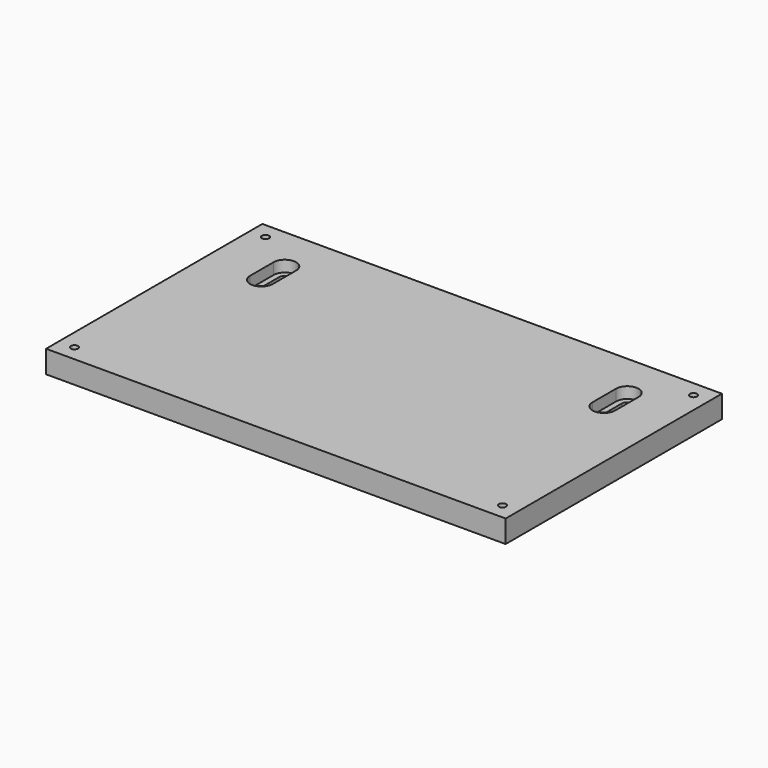
from build123d import *

# Parameters (mm, degrees)
F0_R     = 4
F1_DEPTH = 5
F2_DEPTH = 5
F3_DEPTH = 5
F0_R_2   = 1.6
F4_DEPTH = 5
F5_DEPTH = 5
F6_DEPTH = 5
F7_DEPTH = 5
F8_DEPTH = 5


with BuildPart() as f1:
    # F0 (on Top) → F1 (new body)
    with BuildSketch(Plane.XY):
        Polygon((102, 53), (102, 60), (95, 60), (-95, 60), (-102, 60), (-102, 53), (-102, -53), (-102, -60), (-95, -60), (95, -60), (102, -60), (102, -53), align=None)
        with Locations((-95, -53)):
            Circle(F0_R, mode=Mode.SUBTRACT)
        with Locations((95, -53)):
            Circle(F0_R, mode=Mode.SUBTRACT)
        with BuildLine():
            ThreePointArc((-81, 40), (-76, 45), (-71, 40))
            Line((-71, 40), (-71, 27))
            ThreePointArc((-71, 27), (-76, 22), (-81, 27))
            Line((-81, 27), (-81, 40))
        make_face(mode=Mode.SUBTRACT)
        with Locations((-95, 53)):
            Circle(F0_R, mode=Mode.SUBTRACT)
        with BuildLine():
            Line((71, 27), (71, 40))
            ThreePointArc((71, 40), (76, 45), (81, 40))
            Line((81, 40), (81, 27))
            ThreePointArc((81, 27), (76, 22), (71, 27))
        make_face(mode=Mode.SUBTRACT)
        with Locations((95, 53)):
            Circle(F0_R, mode=Mode.SUBTRACT)
    extrude(amount=-F1_DEPTH)

    # F0 (on Top) → F2 (join)
    with BuildSketch(Plane.XY):
        with BuildLine():
            Line((-71, 27), (-71, 40))
            ThreePointArc((-71, 40), (-76, 45), (-81, 40))
            Line((-81, 40), (-81, 27))
            ThreePointArc((-81, 27), (-80.330127, 29.5), (-78.5, 31.330127))
            Line((-78.5, 31.330127), (-78.5, 40))
            ThreePointArc((-78.5, 40), (-76, 42.5), (-73.5, 40))
            Line((-73.5, 40), (-73.5, 31.330127))
            ThreePointArc((-73.5, 31.330127), (-71.669873, 29.5), (-71, 27))
        make_face()
    extrude(amount=-F2_DEPTH)

    # F0 (on Top) → F3 (join)
    with BuildSketch(Plane.XY):
        Polygon((102, 53), (102, 60), (95, 60), (-95, 60), (-102, 60), (-102, 53), (-102, -53), (-102, -60), (-95, -60), (95, -60), (102, -60), (102, -53), align=None)
        with Locations((-95, -53)):
            Circle(F0_R, mode=Mode.SUBTRACT)
        with Locations((95, -53)):
            Circle(F0_R, mode=Mode.SUBTRACT)
        with BuildLine():
            ThreePointArc((-81, 40), (-76, 45), (-71, 40))
            Line((-71, 40), (-71, 27))
            ThreePointArc((-71, 27), (-76, 22), (-81, 27))
            Line((-81, 27), (-81, 40))
        make_face(mode=Mode.SUBTRACT)
        with Locations((-95, 53)):
            Circle(F0_R, mode=Mode.SUBTRACT)
        with BuildLine():
            Line((71, 27), (71, 40))
            ThreePointArc((71, 40), (76, 45), (81, 40))
            Line((81, 40), (81, 27))
            ThreePointArc((81, 27), (76, 22), (71, 27))
        make_face(mode=Mode.SUBTRACT)
        with Locations((95, 53)):
            Circle(F0_R, mode=Mode.SUBTRACT)
    extrude(amount=F3_DEPTH)

    # F0 (on Top) → F4 (join)
    with BuildSketch(Plane.XY):
        with Locations((95, -53)):
            Circle(F0_R)
        with Locations((95, -53)):
            Circle(F0_R_2, mode=Mode.SUBTRACT)
    extrude(amount=F4_DEPTH)

    # F0 (on Top) → F5 (join)
    with BuildSketch(Plane.XY):
        with BuildLine():
            ThreePointArc((81, 40), (76, 45), (71, 40))
            Line((71, 40), (71, 27))
            ThreePointArc((71, 27), (71.669873, 29.5), (73.5, 31.330127))
            Line((73.5, 31.330127), (73.5, 40))
            ThreePointArc((73.5, 40), (76, 42.5), (78.5, 40))
            Line((78.5, 40), (78.5, 31.330127))
            ThreePointArc((78.5, 31.330127), (80.330127, 29.5), (81, 27))
            Line((81, 27), (81, 40))
        make_face()
    extrude(amount=-F5_DEPTH)

    # F0 (on Top) → F6 (join)
    with BuildSketch(Plane.XY):
        with Locations((95, 53)):
            Circle(F0_R)
        with Locations((95, 53)):
            Circle(F0_R_2, mode=Mode.SUBTRACT)
    extrude(amount=F6_DEPTH)

    # F0 (on Top) → F7 (join)
    with BuildSketch(Plane.XY):
        with Locations((-95, 53)):
            Circle(F0_R)
        with Locations((-95, 53)):
            Circle(F0_R_2, mode=Mode.SUBTRACT)
    extrude(amount=F7_DEPTH)

    # F0 (on Top) → F8 (join)
    with BuildSketch(Plane.XY):
        with Locations((-95, -53)):
            Circle(F0_R)
        with Locations((-95, -53)):
            Circle(F0_R_2, mode=Mode.SUBTRACT)
    extrude(amount=F8_DEPTH)


solid = f1.part
